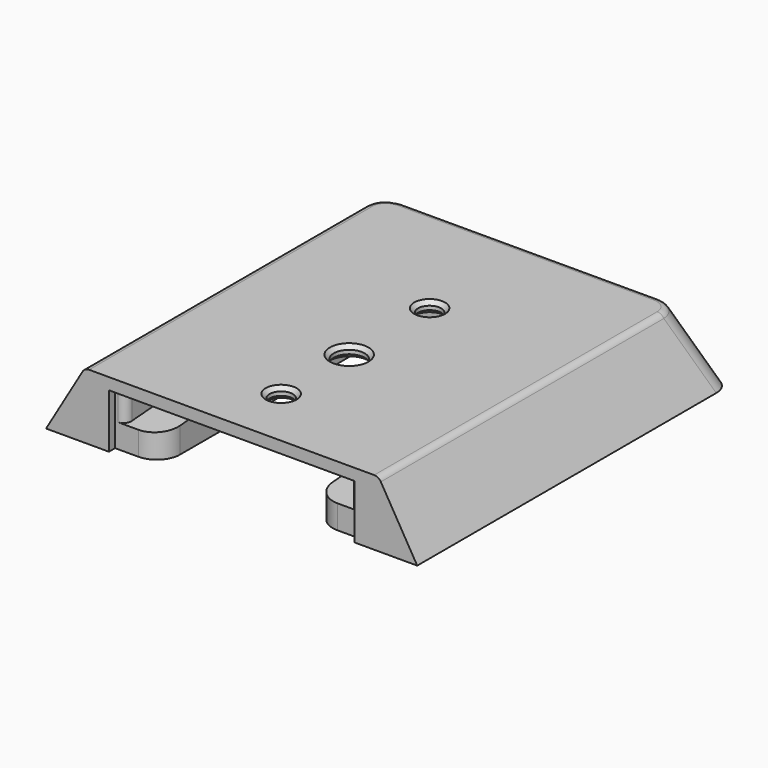
from build123d import *

# Parameters (mm, degrees)
SKETCH_W        = 48
SKETCH_H        = 51
PAD_DEPTH       = 8.5
POCKET_DEPTH    = 48.001
POCKET001_DEPTH = 51.001
SKETCH002_W     = 19.75
SKETCH002_H     = 40
POCKET002_DEPTH = 7
POCKET003_DEPTH = 14.5
SKETCH005_W     = 14
SKETCH005_H     = 2.5
POCKET005_DEPTH = 8.501
SKETCH007_W     = 31.75
SKETCH007_H     = 7
POCKET006_DEPTH = 1
FILLET_R        = 3
FILLET001_R     = 1
SKETCH004_R     = 1.5
SKETCH004_R_2   = 2
POCKET007_DEPTH = 5
CHAMFER_SIZE    = 0.5


with BuildPart() as part:
    # Sketch → Pad (new body)
    with BuildSketch(Plane.XY):
        Rectangle(SKETCH_W, SKETCH_H)
    extrude(amount=PAD_DEPTH)

    # Sketch006 (on Face2 of Pad) → Pocket (cut, through all)
    with BuildSketch(Plane.YZ.offset(24)):
        Polygon((25.5, 8.5), (25.5, 0), (22.75, 8.5), align=None)
    extrude(amount=-POCKET_DEPTH, mode=Mode.SUBTRACT)

    # Sketch001 (on Face3 of Pad) → Pocket001 (cut, through all)
    with BuildSketch(Plane.XZ.offset(25.5)):
        Polygon((-24, 8.5), (-24, 0), (-19, 8.5), align=None)
        Polygon((24, 8.5), (24, 0), (19, 8.5), align=None)
    extrude(amount=-POCKET001_DEPTH, mode=Mode.SUBTRACT)

    # Sketch002 → Pocket002 (cut)
    with BuildSketch(Plane(origin=(0, 0, 0), x_dir=(1, 0, 0), z_dir=(0, 0, -1))):
        with Locations((0, 5.5)):
            Rectangle(SKETCH002_W, SKETCH002_H)
    extrude(amount=-POCKET002_DEPTH, mode=Mode.SUBTRACT)

    # Sketch003 → Pocket003 (cut, symmetric)
    with BuildSketch(Plane.YZ):
        Polygon((-25.5, 3), (-25.5, 7), (14.5, 7), (14.5, 6), align=None)
    extrude(amount=POCKET003_DEPTH, both=True, mode=Mode.SUBTRACT)

    # Sketch005 → Pocket005 (cut, through all)
    with BuildSketch(Plane(origin=(0, 0, 0), x_dir=(1, 0, 0), z_dir=(0, 0, -1))):
        with Locations((0, -24.25)):
            Rectangle(SKETCH005_W, SKETCH005_H)
    extrude(amount=-POCKET005_DEPTH, mode=Mode.SUBTRACT)

    # Sketch007 (on Face2 of Pocket005) → Pocket006 (cut)
    with BuildSketch(Plane.XZ.offset(25.5)):
        with Locations((0, 3.5)):
            Rectangle(SKETCH007_W, SKETCH007_H)
    extrude(amount=-POCKET006_DEPTH, mode=Mode.SUBTRACT)

    # Fillet
    fillet_edges = [part.edges().sort_by_distance(p)[0] for p in [
        (21.5, 24.125, 4.25),
        (-21.5, 24.125, 4.25),
        (-9.875, -24.5, 1.5375),
        (9.875, -24.5, 1.5375),
    ]]
    fillet(fillet_edges, radius=FILLET_R)

    # Fillet001
    fillet001_edges = [part.edges().sort_by_distance(p)[0] for p in [
        (19, -2.705496, 8.5),
        (7, 24.25, 3.863636),
        (-7, 24.25, 3.863636),
        (-14.5, -24.5, 5.0375),
        (14.5, -24.5, 5.0375),
    ]]
    fillet(fillet001_edges, radius=FILLET001_R)

    # Sketch004 (on Face25 of Fillet001) → Pocket007 (cut)
    with BuildSketch(Plane.XY.offset(8.5)):
        with Locations((0, 6.5)):
            Circle(SKETCH004_R)
        with Locations((0, -6.5)):
            Circle(SKETCH004_R_2)
        with Locations((0, -17.5)):
            Circle(SKETCH004_R)
    extrude(amount=-POCKET007_DEPTH, mode=Mode.SUBTRACT)

    # Chamfer
    chamfer_edges = [part.edges().sort_by_distance(p)[0] for p in [
        (-2, -6.5, 8.5),
        (-1.5, -17.5, 8.5),
        (-1.5, 6.5, 8.5),
        (-1.5, -17.5, 7),
        (-2, -6.5, 7),
        (-1.5, 6.5, 7),
    ]]
    chamfer(chamfer_edges, length=CHAMFER_SIZE)


solid = part.part
